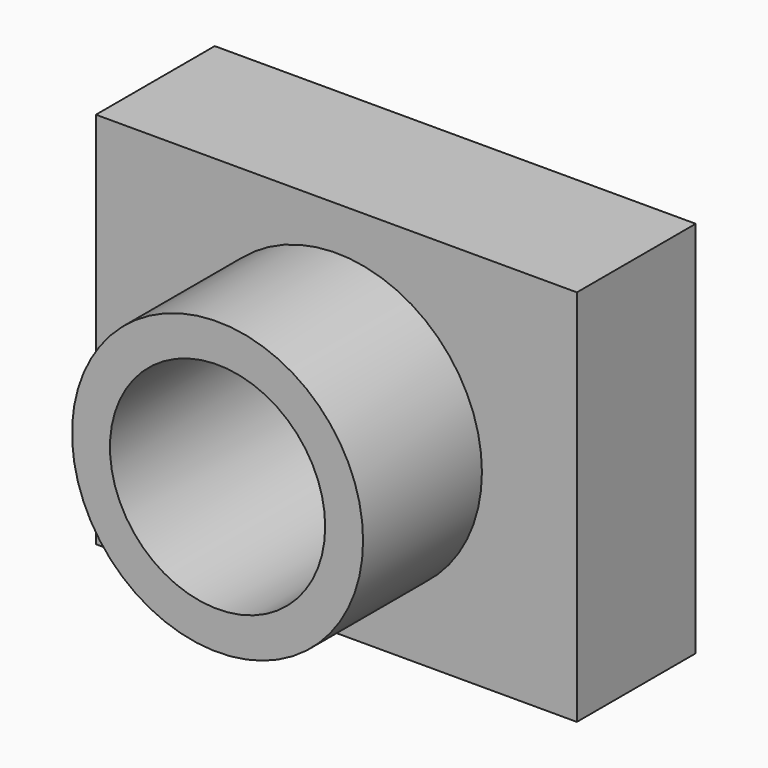
from build123d import *

# Parameters (mm, degrees)
F0_W     = 82.244918
F0_H     = 64.663574
F1_DEPTH = 25.4
F2_R     = 24.883851
F3_DEPTH = 25.4
F4_R     = 18.401021
F5_DEPTH = 127


with BuildPart() as f1:
    # F0 (on Front) → F1 (new body)
    with BuildSketch(Plane.XZ):
        Rectangle(F0_W, F0_H)
    extrude(amount=F1_DEPTH)

    # F2 (on face) → F3 (join)
    with BuildSketch(Plane.XZ.offset(25.4)):
        Circle(F2_R)
    extrude(amount=F3_DEPTH)

    # F4 (on face) → F5 (cut)
    with BuildSketch(Plane.XZ.offset(50.8)):
        Circle(F4_R)
    extrude(amount=-F5_DEPTH, mode=Mode.SUBTRACT)


solid = f1.part
